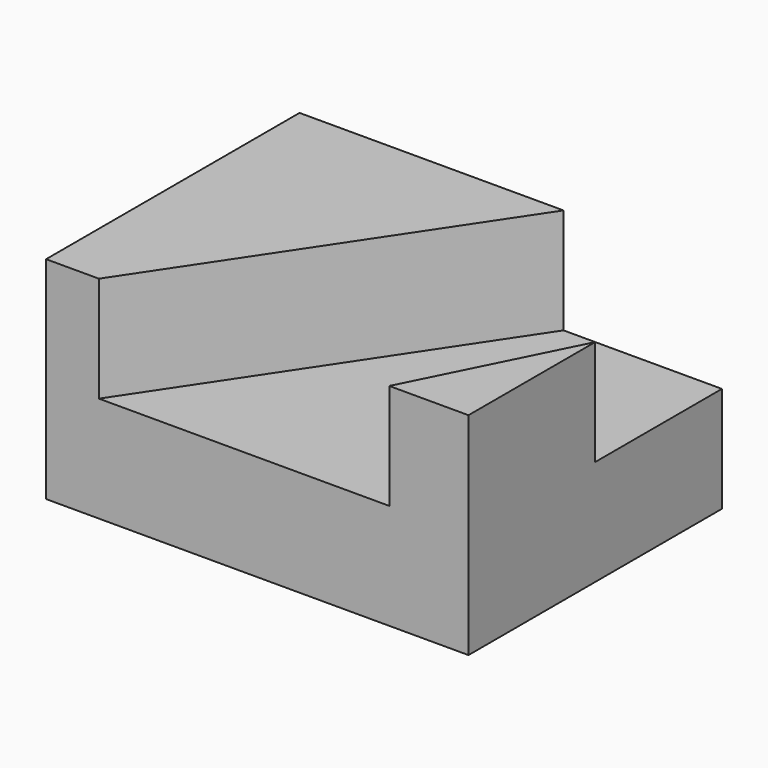
from build123d import *

# Parameters (mm, degrees)
F0_W     = 50.8
F0_H     = 25.4
F1_DEPTH = 38.1
F2_W     = 19.05
F2_H     = 12.7
F3_DEPTH = 19.05
F5_DEPTH = 12.7


with BuildPart() as f1:
    # F0 (on Front) → F1 (new body)
    with BuildSketch(Plane.XZ):
        with Locations((25.4, 12.7)):
            Rectangle(F0_W, F0_H)
    extrude(amount=F1_DEPTH)

    # F2 (on face) → F3 (cut)
    with BuildSketch(Plane.YZ.offset(50.8)):
        with Locations((-9.525, 19.05)):
            Rectangle(F2_W, F2_H)
    extrude(amount=-F3_DEPTH, mode=Mode.SUBTRACT)

    # F4 (on face) → F5 (cut)
    with BuildSketch(Plane.XY.offset(25.4)):
        Polygon((41.275, -38.1), (50.8, -19.05), (31.75, -19.05), (31.75, 0), (6.35, -38.1), align=None)
    extrude(amount=-F5_DEPTH, mode=Mode.SUBTRACT)


solid = f1.part
